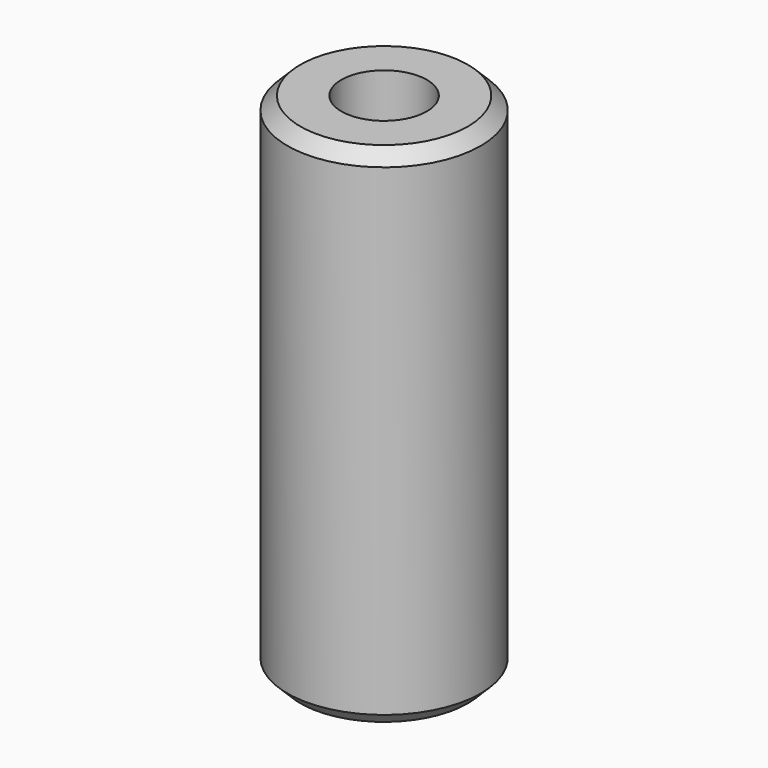
from build123d import *

# Parameters (mm, degrees)
F0_R     = 9.521529
F1_DEPTH = 50.038
F2_R     = 4.212997
F3_DEPTH = 76.2
F4_SIZE  = 1.27


with BuildPart() as f1:
    # F0 (on Top) → F1 (new body)
    with BuildSketch(Plane.XY):
        with Locations((-11.465707, 22.031024)):
            Circle(F0_R)
    extrude(amount=F1_DEPTH)

    # F2 (on face) → F3 (cut)
    with BuildSketch(Plane.XY.offset(50.038)):
        with Locations((-11.465707, 22.031024)):
            Circle(F2_R)
    extrude(amount=-F3_DEPTH, mode=Mode.SUBTRACT)

    # F4
    f4_edges = [f1.edges().sort_by_distance(p)[0] for p in [
        (-20.987236, 22.031024, 0),
        (-20.987236, 22.031024, 50.038),
    ]]
    chamfer(f4_edges, length=F4_SIZE)


solid = f1.part
